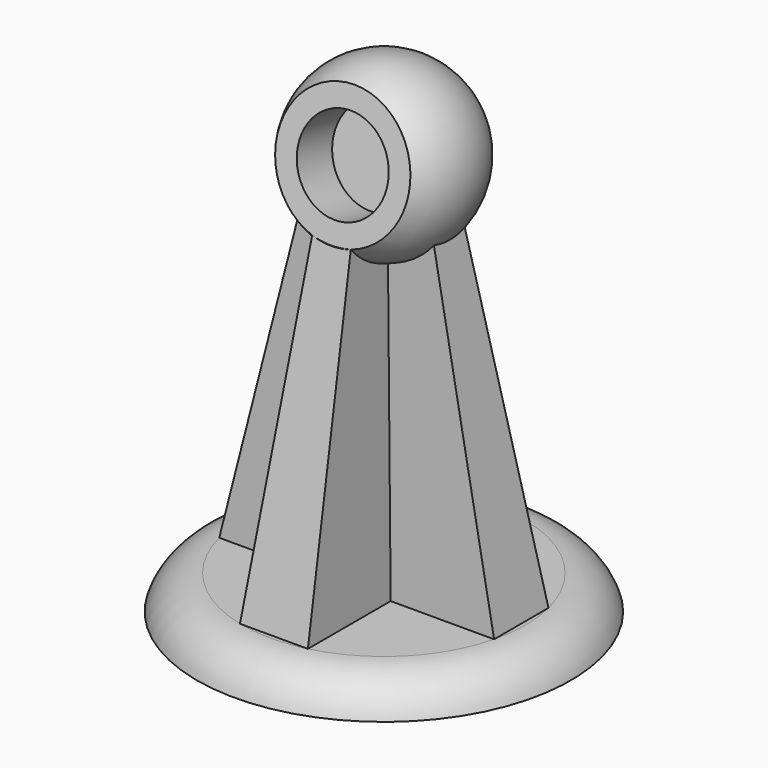
from build123d import *

# Parameters (mm, degrees)
SKETCH004_R     = 13.1697157112
POCKET_DEPTH    = 26.1966179099
SKETCH005_R     = 8
POCKET001_DEPTH = 8


with BuildPart() as part:
    # Sketch001 → Revolution (revolve)
    with BuildSketch(Plane.XZ):
        with BuildLine():
            Line((0, -6), (-25, -6))
            Line((-25, -6), (-33, -6))
            ThreePointArc((-25, 0), (-30, -1.6666666667), (-33, -6))
            Line((-25, 0), (0, 0))
            Line((0, -6), (0, 0))
        make_face()
    revolve(axis=Axis((0, 0, 0), (0, 0, 1)))

    # Sketch002 (on Face4 of Revolution) → AdditiveLoft section 0
    with BuildSketch(Plane(origin=(0, 0, 0), x_dir=(-1, 0, 0), z_dir=(0, 0, 1))):
        Polygon((-6, 24.269322199), (6, 24.269322199), (6, 6), (24.269322199, 6), (24.269322199, -6), (6, -6), (6, -24.269322199), (-6, -24.269322199), (-6, -6), (-24.269322199, -6), (-24.269322199, 6), (-6, 6), align=None)
    # Sketch003 (on Face4 of Revolution) → AdditiveLoft section 1
    with BuildSketch(Plane(origin=(0, 0, 65), x_dir=(-1, 0, 0), z_dir=(0, 0, 1))):
        Polygon((-3, 9.5393920142), (3, 9.5393920142), (3, 3), (9.5393920142, 3), (9.5393920142, -3), (3.0000000001, -3), (3.0000000001, -9.5393920142), (-3, -9.5393920142), (-3, -3), (-9.5393920142, -3), (-9.5393920142, 3), (-3, 3), align=None)
    loft()

    # Sphere → Sphere (revolve)
    with BuildSketch(Plane(origin=(0, 0, 65), x_dir=(-1, 0, 0), z_dir=(0, 1, 0))):
        with BuildLine():
            ThreePointArc((0, -15), (15, 0), (0, 15))
            Line((0, 15), (0, -15))
        make_face()
    revolve(axis=Axis((0, 0, 65), (0, 0, 1)))

    # Sketch004 (on DatumPlane) → Pocket (cut, through all)
    with BuildSketch(Plane(origin=(0, -18.5276390249, 25.3368075501), x_dir=(-1, 0, 0), z_dir=(0, -0.9752714364, 0.2210104642))):
        with Locations((0, -44.2365366104)):
            Circle(SKETCH004_R)
    extrude(amount=POCKET_DEPTH, mode=Mode.SUBTRACT)

    # Sketch005 (on Face26 of Pocket) → Pocket001 (cut)
    with BuildSketch(Plane(origin=(0, -9.0734344466, 67.0561700913), x_dir=(1, 0, 0), z_dir=(0, -0.9752714364, 0.2210104642))):
        Circle(SKETCH005_R)
    extrude(amount=-POCKET001_DEPTH, mode=Mode.SUBTRACT)


solid = part.part
